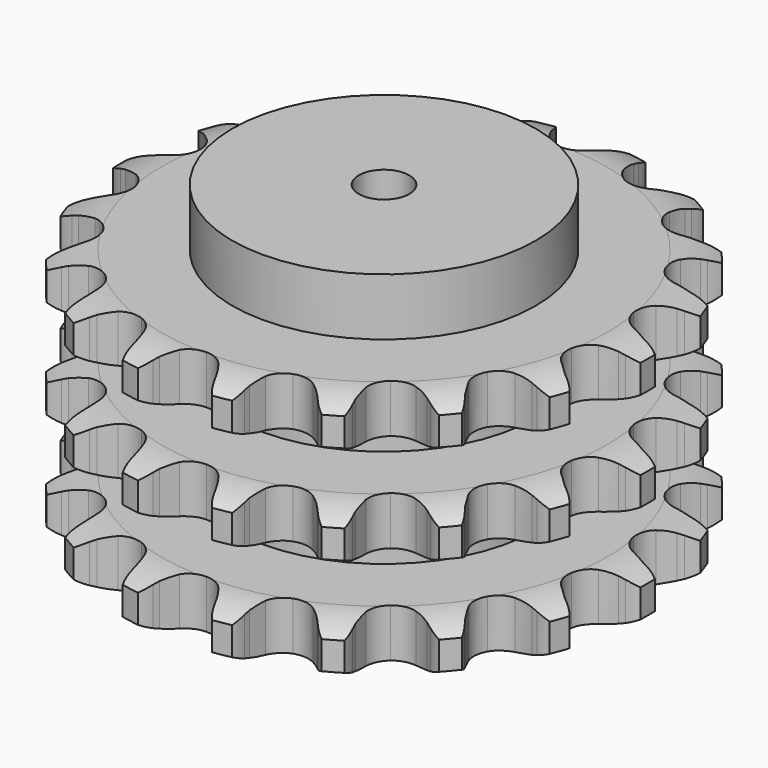
from build123d import *

# Parameters (mm, degrees)
PAD_DEPTH         = 146
SKETCH001_R       = 90
PAD001_DEPTH      = 180
SKETCH002_R       = 15
POCKET_DEPTH      = 0.001
POCKET_DEPTH_BACK = 180.001


with BuildPart() as part:
    # Sprocket → Pad (new body)
    with BuildSketch(Plane.XY):
        with BuildLine():
            ThreePointArc((-28.258586, 160.262403), (-22.20305, 155.378028), (-18.003876, 148.82871))
            Line((-18.003876, 148.82871), (-16.609914, 145.614296))
            ThreePointArc((-16.609914, 145.614296), (-14.352218, 141.215002), (-11.543559, 137.145307))
            ThreePointArc((-11.543559, 137.145307), (-6.412622, 133.027295), (0, 131.556645))
            ThreePointArc((0, 131.556645), (6.412622, 133.027295), (11.543559, 137.145307))
            ThreePointArc((11.543559, 137.145307), (14.352218, 141.215002), (16.609914, 145.614296))
            Line((16.609914, 145.614296), (18.003876, 148.82871))
            ThreePointArc((18.003876, 148.82871), (22.20305, 155.378028), (28.258586, 160.262403))
            ThreePointArc((28.258586, 160.262403), (32.278373, 153.601477), (33.984307, 146.010929))
            Line((33.984307, 146.010929), (34.194809, 142.513604))
            ThreePointArc((34.194809, 142.513604), (34.811702, 137.607443), (36.05906, 132.822563))
            ThreePointArc((36.05906, 132.822563), (39.472121, 127.198014), (44.995023, 123.622809))
            ThreePointArc((44.995023, 123.622809), (51.523908, 122.811522), (57.753855, 124.926304))
            Line((57.753855, 124.926304), (65.411236, 131.151754))
            ThreePointArc((65.411236, 131.151754), (66.586613, 132.451374), (67.820526, 133.695552))
            ThreePointArc((67.820526, 133.695552), (74.006458, 138.413696), (81.367354, 140.932392))
            ThreePointArc((81.367354, 140.932392), (82.866548, 133.29832), (81.873481, 125.582075))
            Line((81.873481, 125.582075), (80.875133, 122.223669))
            ThreePointArc((80.875133, 122.223669), (79.776816, 117.402395), (79.312425, 112.479457))
            ThreePointArc((79.312425, 112.479457), (80.595943, 106.026774), (84.562982, 100.778237))
            ThreePointArc((84.562982, 100.778237), (90.420651, 97.782866), (96.998183, 97.639344))
            Line((96.998183, 97.639344), (106.322997, 100.870375))
            ThreePointArc((106.322997, 100.870375), (107.871986, 101.689616), (109.45702, 102.436738))
            ThreePointArc((109.45702, 102.436738), (116.883594, 104.754629), (124.662019, 104.603854))
            ThreePointArc((124.662019, 104.603854), (123.459794, 96.91742), (119.887506, 90.006169))
            Line((119.887506, 90.006169), (117.800722, 87.191755))
            ThreePointArc((117.800722, 87.191755), (115.11967, 83.036886), (112.999541, 78.569669))
            ThreePointArc((112.999541, 78.569669), (111.998706, 72.067141), (113.931397, 65.778323))
            ThreePointArc((113.931397, 65.778323), (118.411328, 60.960154), (124.5431, 58.575638))
            Line((124.5431, 58.575638), (134.410636, 58.422541))
            ThreePointArc((134.410636, 58.422541), (136.146407, 58.66259), (137.891382, 58.822541))
            ThreePointArc((137.891382, 58.822541), (145.662844, 58.460608), (152.920605, 55.658548))
            ThreePointArc((152.920605, 55.658548), (149.161967, 48.846847), (143.441327, 43.574191))
            Line((143.441327, 43.574191), (140.517806, 41.643229))
            ThreePointArc((140.517806, 41.643229), (136.577392, 38.655903), (133.057244, 35.183219))
            ThreePointArc((133.057244, 35.183219), (129.892771, 29.415147), (129.558004, 22.844572))
            ThreePointArc((129.558004, 22.844572), (132.119852, 16.784747), (137.06628, 12.446846))
            Line((137.06628, 12.446846), (146.286369, 8.928085))
            ThreePointArc((146.286369, 8.928085), (147.999561, 8.559989), (149.694008, 8.113477))
            ThreePointArc((149.694008, 8.113477), (156.873006, 5.115375), (162.734709, 0))
            ThreePointArc((162.734709, 0), (156.873006, -5.115375), (149.694008, -8.113477))
            Line((149.694008, -8.113477), (146.286369, -8.928085))
            ThreePointArc((146.286369, -8.928085), (141.561865, -10.387552), (137.06628, -12.446846))
            ThreePointArc((137.06628, -12.446846), (132.119852, -16.784747), (129.558004, -22.844572))
            ThreePointArc((129.558004, -22.844572), (129.892771, -29.415147), (133.057244, -35.183219))
            Line((133.057244, -35.183219), (140.517806, -41.643229))
            ThreePointArc((140.517806, -41.643229), (142.001784, -42.575073), (143.441327, -43.574191))
            ThreePointArc((143.441327, -43.574191), (149.161967, -48.846847), (152.920605, -55.658548))
            ThreePointArc((152.920605, -55.658548), (145.662844, -58.460608), (137.891382, -58.822541))
            Line((137.891382, -58.822541), (134.410636, -58.422541))
            ThreePointArc((134.410636, -58.422541), (129.471888, -58.178115), (124.5431, -58.575638))
            ThreePointArc((124.5431, -58.575638), (118.411328, -60.960154), (113.931397, -65.778323))
            ThreePointArc((113.931397, -65.778323), (111.998706, -72.067141), (112.999541, -78.569669))
            Line((112.999541, -78.569669), (117.800722, -87.191755))
            ThreePointArc((117.800722, -87.191755), (118.876496, -88.574952), (119.887506, -90.006169))
            ThreePointArc((119.887506, -90.006169), (123.459794, -96.91742), (124.662019, -104.603854))
            ThreePointArc((124.662019, -104.603854), (116.883594, -104.754629), (109.45702, -102.436738))
            Line((109.45702, -102.436738), (106.322997, -100.870375))
            ThreePointArc((106.322997, -100.870375), (101.76569, -98.951539), (96.998183, -97.639344))
            ThreePointArc((96.998183, -97.639344), (90.420651, -97.782866), (84.562982, -100.778237))
            ThreePointArc((84.562982, -100.778237), (80.595943, -106.026774), (79.312425, -112.479457))
            Line((79.312425, -112.479457), (80.875133, -122.223669))
            ThreePointArc((80.875133, -122.223669), (81.412948, -123.891385), (81.873481, -125.582075))
            ThreePointArc((81.873481, -125.582075), (82.866548, -133.29832), (81.367354, -140.932392))
            ThreePointArc((81.367354, -140.932392), (74.006458, -138.413696), (67.820526, -133.695552))
            Line((67.820526, -133.695552), (65.411236, -131.151754))
            ThreePointArc((65.411236, -131.151754), (61.785048, -127.789947), (57.753855, -124.926304))
            ThreePointArc((57.753855, -124.926304), (51.523908, -122.811522), (44.995023, -123.622809))
            ThreePointArc((44.995023, -123.622809), (39.472121, -127.198014), (36.05906, -132.822563))
            Line((36.05906, -132.822563), (34.194809, -142.513604))
            ThreePointArc((34.194809, -142.513604), (34.129798, -144.264689), (33.984307, -146.010929))
            ThreePointArc((33.984307, -146.010929), (32.278373, -153.601477), (28.258586, -160.262403))
            ThreePointArc((28.258586, -160.262403), (22.20305, -155.378028), (18.003876, -148.82871))
            Line((18.003876, -148.82871), (16.609914, -145.614296))
            ThreePointArc((16.609914, -145.614296), (14.352218, -141.215002), (11.543559, -137.145307))
            ThreePointArc((11.543559, -137.145307), (6.412622, -133.027295), (0, -131.556645))
            ThreePointArc((0, -131.556645), (-6.412622, -133.027295), (-11.543559, -137.145307))
            Line((-11.543559, -137.145307), (-16.609914, -145.614296))
            ThreePointArc((-16.609914, -145.614296), (-17.269911, -147.237542), (-18.003876, -148.82871))
            ThreePointArc((-18.003876, -148.82871), (-22.20305, -155.378028), (-28.258586, -160.262403))
            ThreePointArc((-28.258586, -160.262403), (-32.278373, -153.601477), (-33.984307, -146.010929))
            Line((-33.984307, -146.010929), (-34.194809, -142.513604))
            ThreePointArc((-34.194809, -142.513604), (-34.811702, -137.607443), (-36.05906, -132.822563))
            ThreePointArc((-36.05906, -132.822563), (-39.472121, -127.198014), (-44.995023, -123.622809))
            ThreePointArc((-44.995023, -123.622809), (-51.523908, -122.811522), (-57.753855, -124.926304))
            Line((-57.753855, -124.926304), (-65.411236, -131.151754))
            ThreePointArc((-65.411236, -131.151754), (-66.586613, -132.451374), (-67.820526, -133.695552))
            ThreePointArc((-67.820526, -133.695552), (-74.006458, -138.413696), (-81.367354, -140.932392))
            ThreePointArc((-81.367354, -140.932392), (-82.866548, -133.29832), (-81.873481, -125.582075))
            Line((-81.873481, -125.582075), (-80.875133, -122.223669))
            ThreePointArc((-80.875133, -122.223669), (-79.776816, -117.402395), (-79.312425, -112.479457))
            ThreePointArc((-79.312425, -112.479457), (-80.595943, -106.026774), (-84.562982, -100.778237))
            ThreePointArc((-84.562982, -100.778237), (-90.420651, -97.782866), (-96.998183, -97.639344))
            Line((-96.998183, -97.639344), (-106.322997, -100.870375))
            ThreePointArc((-106.322997, -100.870375), (-107.871986, -101.689616), (-109.45702, -102.436738))
            ThreePointArc((-109.45702, -102.436738), (-116.883594, -104.754629), (-124.662019, -104.603854))
            ThreePointArc((-124.662019, -104.603854), (-123.459794, -96.91742), (-119.887506, -90.006169))
            Line((-119.887506, -90.006169), (-117.800722, -87.191755))
            ThreePointArc((-117.800722, -87.191755), (-115.11967, -83.036886), (-112.999541, -78.569669))
            ThreePointArc((-112.999541, -78.569669), (-111.998706, -72.067141), (-113.931397, -65.778323))
            ThreePointArc((-113.931397, -65.778323), (-118.411328, -60.960154), (-124.5431, -58.575638))
            Line((-124.5431, -58.575638), (-134.410636, -58.422541))
            ThreePointArc((-134.410636, -58.422541), (-136.146407, -58.66259), (-137.891382, -58.822541))
            ThreePointArc((-137.891382, -58.822541), (-145.662844, -58.460608), (-152.920605, -55.658548))
            ThreePointArc((-152.920605, -55.658548), (-149.161967, -48.846847), (-143.441327, -43.574191))
            Line((-143.441327, -43.574191), (-140.517806, -41.643229))
            ThreePointArc((-140.517806, -41.643229), (-136.577392, -38.655903), (-133.057244, -35.183219))
            ThreePointArc((-133.057244, -35.183219), (-129.892771, -29.415147), (-129.558004, -22.844572))
            ThreePointArc((-129.558004, -22.844572), (-132.119852, -16.784747), (-137.06628, -12.446846))
            Line((-137.06628, -12.446846), (-146.286369, -8.928085))
            ThreePointArc((-146.286369, -8.928085), (-147.999561, -8.559989), (-149.694008, -8.113477))
            ThreePointArc((-149.694008, -8.113477), (-156.873006, -5.115375), (-162.734709, 0))
            ThreePointArc((-162.734709, 0), (-156.873006, 5.115375), (-149.694008, 8.113477))
            Line((-149.694008, 8.113477), (-146.286369, 8.928085))
            ThreePointArc((-146.286369, 8.928085), (-141.561865, 10.387552), (-137.06628, 12.446846))
            ThreePointArc((-137.06628, 12.446846), (-132.119852, 16.784747), (-129.558004, 22.844572))
            ThreePointArc((-129.558004, 22.844572), (-129.892771, 29.415147), (-133.057244, 35.183219))
            Line((-133.057244, 35.183219), (-140.517806, 41.643229))
            ThreePointArc((-140.517806, 41.643229), (-142.001784, 42.575073), (-143.441327, 43.574191))
            ThreePointArc((-143.441327, 43.574191), (-149.161967, 48.846847), (-152.920605, 55.658548))
            ThreePointArc((-152.920605, 55.658548), (-145.662844, 58.460608), (-137.891382, 58.822541))
            Line((-137.891382, 58.822541), (-134.410636, 58.422541))
            ThreePointArc((-134.410636, 58.422541), (-129.471888, 58.178115), (-124.5431, 58.575638))
            ThreePointArc((-124.5431, 58.575638), (-118.411328, 60.960154), (-113.931397, 65.778323))
            ThreePointArc((-113.931397, 65.778323), (-111.998706, 72.067141), (-112.999541, 78.569669))
            Line((-112.999541, 78.569669), (-117.800722, 87.191755))
            ThreePointArc((-117.800722, 87.191755), (-118.876496, 88.574952), (-119.887506, 90.006169))
            ThreePointArc((-119.887506, 90.006169), (-123.459794, 96.91742), (-124.662019, 104.603854))
            ThreePointArc((-124.662019, 104.603854), (-116.883594, 104.754629), (-109.45702, 102.436738))
            Line((-109.45702, 102.436738), (-106.322997, 100.870375))
            ThreePointArc((-106.322997, 100.870375), (-101.76569, 98.951539), (-96.998183, 97.639344))
            ThreePointArc((-96.998183, 97.639344), (-90.420651, 97.782866), (-84.562982, 100.778237))
            ThreePointArc((-84.562982, 100.778237), (-80.595943, 106.026774), (-79.312425, 112.479457))
            Line((-79.312425, 112.479457), (-80.875133, 122.223669))
            ThreePointArc((-80.875133, 122.223669), (-81.412948, 123.891385), (-81.873481, 125.582075))
            ThreePointArc((-81.873481, 125.582075), (-82.866548, 133.29832), (-81.367354, 140.932392))
            ThreePointArc((-81.367354, 140.932392), (-74.006458, 138.413696), (-67.820526, 133.695552))
            Line((-67.820526, 133.695552), (-65.411236, 131.151754))
            ThreePointArc((-65.411236, 131.151754), (-61.785048, 127.789947), (-57.753855, 124.926304))
            ThreePointArc((-57.753855, 124.926304), (-51.523908, 122.811522), (-44.995023, 123.622809))
            ThreePointArc((-44.995023, 123.622809), (-39.472121, 127.198014), (-36.05906, 132.822563))
            Line((-36.05906, 132.822563), (-34.194809, 142.513604))
            ThreePointArc((-34.194809, 142.513604), (-34.129798, 144.264689), (-33.984307, 146.010929))
            ThreePointArc((-33.984307, 146.010929), (-32.278373, 153.601477), (-28.258586, 160.262403))
        make_face()
    extrude(amount=PAD_DEPTH)

    # Sketch → Groove (revolve, cut)
    with BuildSketch(Plane.XZ):
        with BuildLine():
            ThreePointArc((132.5, 0), (144.869317, 1.522732), (156.5, 6))
            Line((156.5, 6), (156.5, 22.8))
            ThreePointArc((156.5, 22.8), (144.869317, 27.277268), (132.5, 28.8))
            Line((90, 28.8), (132.5, 28.8))
            Line((90, 28.8), (90, 58.6))
            Line((90, 58.6), (132.5, 58.6))
            ThreePointArc((132.5, 58.6), (144.869317, 60.122732), (156.5, 64.6))
            Line((156.5, 81.4), (156.5, 64.6))
            ThreePointArc((156.5, 81.4), (144.869317, 85.877268), (132.5, 87.4))
            Line((90, 87.4), (132.5, 87.4))
            Line((90, 117.2), (90, 87.4))
            Line((132.5, 117.2), (90, 117.2))
            ThreePointArc((132.5, 117.2), (144.869317, 118.722732), (156.5, 123.2))
            Line((156.5, 123.2), (156.5, 140))
            ThreePointArc((156.5, 140), (144.869317, 144.477268), (132.5, 146))
            Line((132.5, 146), (166.5, 146))
            Line((166.5, 146), (166.5, 0))
            Line((132.5, 0), (166.5, 0))
        make_face()
    revolve(axis=Axis((0, 0, 0), (0, 0, 1)), mode=Mode.SUBTRACT)

    # Sketch001 → Pad001 (join)
    with BuildSketch(Plane.XY):
        Circle(SKETCH001_R)
    extrude(amount=PAD001_DEPTH)

    # Sketch002 → Pocket (cut, two sides)
    with BuildSketch(Plane.XY) as pocket_sk:
        Circle(SKETCH002_R)
    extrude(amount=-POCKET_DEPTH, mode=Mode.SUBTRACT)
    extrude(pocket_sk.sketch, amount=POCKET_DEPTH_BACK, mode=Mode.SUBTRACT)


solid = part.part
